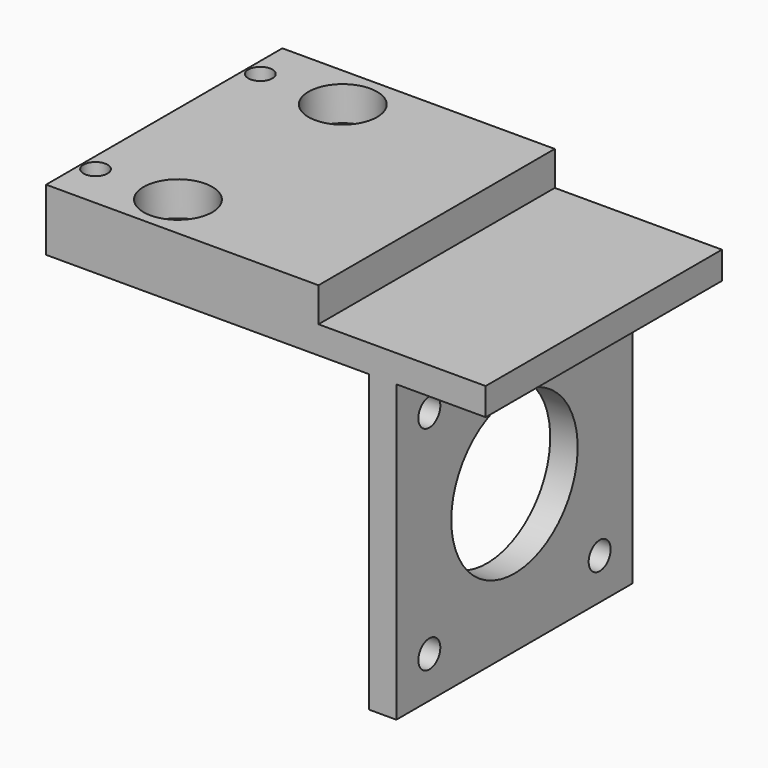
from build123d import *

# Parameters (mm, degrees)
F0_W            = 64
F0_H            = 43
F8_DEPTH        = 4
F1_W            = 4
F1_H            = 43
F2_DEPTH        = 43
F4_D            = 4
F9_D            = 23
F5_W            = 39.661507
F5_H            = 43
F10_DEPTH       = 20
F7_D            = 5.5
F7_CBORE_D      = 10
F7_CBORE_DEPTH  = 20
F11_D           = 3.5
F11_CBORE_D     = 5
F11_CBORE_DEPTH = 15
F6_W            = 39.661507
F6_H            = 43
F12_DEPTH       = 15


with BuildPart() as f8:
    # F0 (on Top) → F8 (new body)
    with BuildSketch(Plane.XY):
        Rectangle(F0_W, F0_H)
    extrude(amount=F8_DEPTH)

    # F1 (on face) → F2 (join)
    with BuildSketch(Plane(origin=(0, 0, 0), x_dir=(1, 0, 0), z_dir=(0, 0, -1))):
        with Locations((17, 0)):
            Rectangle(F1_W, F1_H)
    extrude(amount=F2_DEPTH)

    # F4 (through all)
    with Locations(Plane.YZ.offset(19)):
        with Locations((15.5, -37), (15.5, -6), (-15.5, -37), (-15.5, -6)):
            Hole(F4_D / 2)

    # F9 (through all)
    with Locations(Plane.YZ.offset(19)):
        with Locations((0, -21.5)):
            Hole(F9_D / 2)

    # F5 (on face) → F10 (join)
    with BuildSketch(Plane.XY.offset(4)):
        with Locations((-12.169246, 0)):
            Rectangle(F5_W, F5_H)
    extrude(amount=F10_DEPTH)

    # F7 (through all)
    with Locations(Plane.XY.offset(24)):
        with Locations((-18, -15), (-18, 15)):
            CounterBoreHole(F7_D / 2, F7_CBORE_D / 2, F7_CBORE_DEPTH)

    # F11 (through all)
    with Locations(Plane.XY.offset(24)):
        with Locations((-30, 15), (-30, -15)):
            CounterBoreHole(F11_D / 2, F11_CBORE_D / 2, F11_CBORE_DEPTH)

    # F6 (on face) → F12 (cut)
    with BuildSketch(Plane.XY.offset(24)):
        with Locations((-12.169246, 0)):
            Rectangle(F6_W, F6_H)
    extrude(amount=-F12_DEPTH, mode=Mode.SUBTRACT)


solid = f8.part
